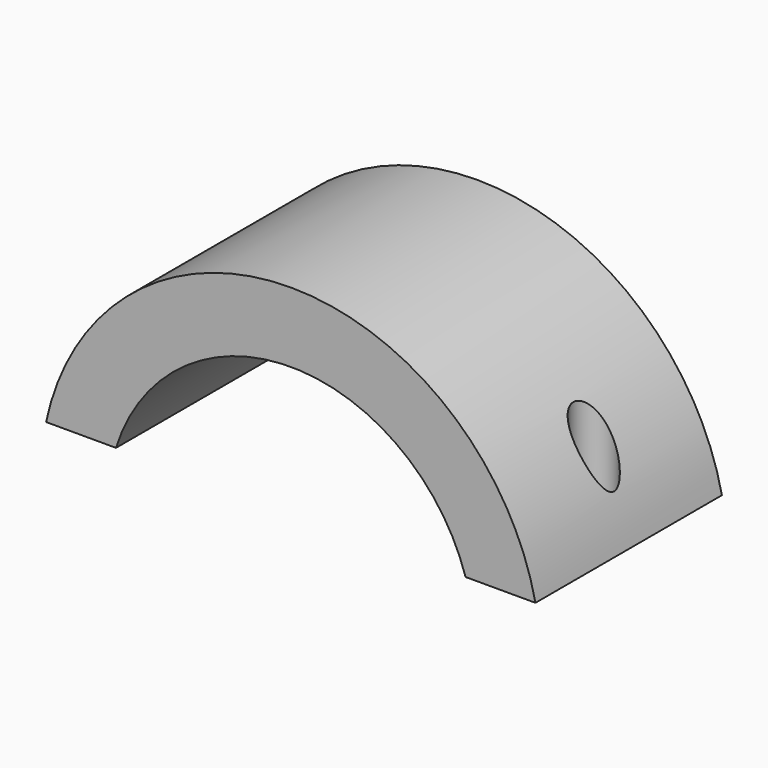
from build123d import *

# Parameters (mm, degrees)
F1_DEPTH = 20
F2_R     = 1.7
F3_R     = 1.75
F4_DEPTH = 17.001


with BuildPart() as f1:
    # F0 (on Front) → F1 (new body)
    with BuildSketch(Plane.XZ):
        with BuildLine():
            ThreePointArc((-15, 0), (0, 11), (15, 0))
            Line((15, 0), (21, 0))
            ThreePointArc((21, 0), (0, 17), (-21, 0))
            Line((-21, 0), (-15, 0))
        make_face()
    extrude(amount=F1_DEPTH)

    # F2 (on face) + F3 (on face) → F4 (cut, through all)
    with BuildSketch(Plane(origin=(0, 0, 0), x_dir=(1, 0, 0), z_dir=(0, 0, -1))):
        with Locations((-18, 10)):
            Circle(F2_R)
    with BuildSketch(Plane(origin=(0, 0, 0), x_dir=(1, 0, 0), z_dir=(0, 0, -1))):
        with Locations((18, 10)):
            Circle(F3_R)
    extrude(amount=-F4_DEPTH, mode=Mode.SUBTRACT)


solid = f1.part
